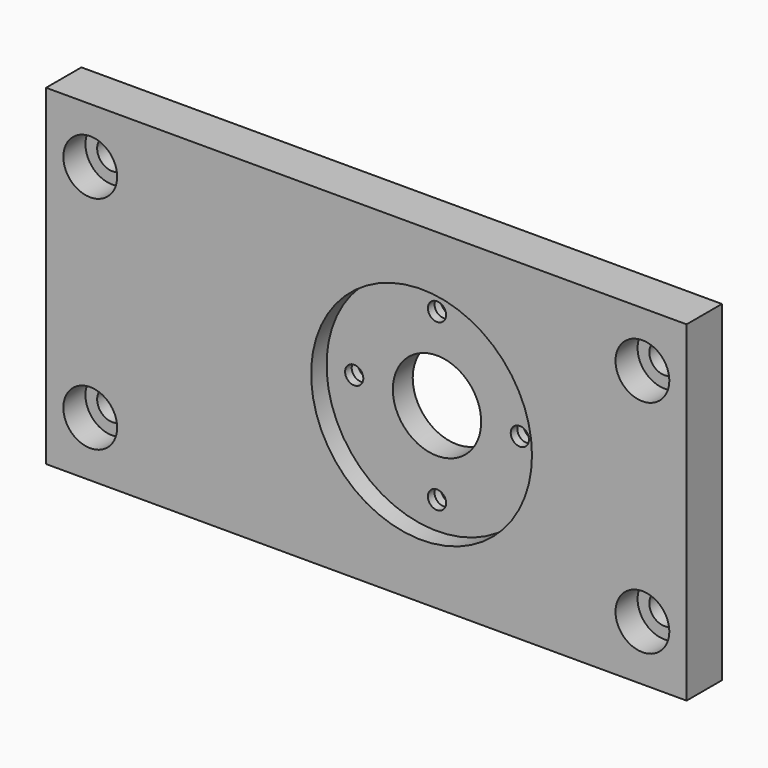
from build123d import *

# Parameters (mm, degrees)
F0_W           = 116
F0_H           = 60
F1_DEPTH       = 8
F3_D           = 5.5
F3_DEPTH       = 13.8
F3_CBORE_D     = 9.75
F3_CBORE_DEPTH = 5
F3_TIP         = 1.6523667023
F4_D           = 16
F4_DEPTH       = 13.8
F4_CBORE_D     = 40
F4_CBORE_DEPTH = 3.5
F4_TIP         = 4.8068849522
F5_D           = 3.3
F5_DEPTH       = 13.8
F5_CBORE_D     = 6.5
F5_CBORE_DEPTH = 3
F5_TIP         = 0.9914200214


with BuildPart() as f1:
    # F0 (on Front) → F1 (new body)
    with BuildSketch(Plane.XZ):
        with Locations((1.8354473706, 0.0017675648)):
            Rectangle(F0_W, F0_H)
    extrude(amount=F1_DEPTH)

    # F3
    with Locations(Plane.XZ.offset(8)):
        with Locations((-48.1645526294, 20.0017675648), (-48.1645526294, -19.9982324352), (51.8354473706, 20.0017675648), (51.8354473706, -19.9982324352)):
            CounterBoreHole(F3_D / 2, F3_CBORE_D / 2, F3_CBORE_DEPTH, depth=F3_DEPTH)
            with Locations((0, 0, -(F3_DEPTH + F3_TIP / 2))):  # 118° drill point
                Cone(0, F3_D / 2, F3_TIP, mode=Mode.SUBTRACT)

    # F4
    with Locations(Plane.XZ.offset(8)):
        with Locations((11.8354473706, 0)):
            CounterBoreHole(F4_D / 2, F4_CBORE_D / 2, F4_CBORE_DEPTH, depth=F4_DEPTH)
            with Locations((0, 0, -(F4_DEPTH + F4_TIP / 2))):  # 118° drill point
                Cone(0, F4_D / 2, F4_TIP, mode=Mode.SUBTRACT)

    # F5
    with Locations(Plane(origin=(0, 0, 0), x_dir=(1, 0, 0), z_dir=(0, 1, 0))):
        with Locations((11.8354473706, -15), (26.8354473706, 0), (11.8354473706, 15), (-3.1645526294, 0)):
            CounterBoreHole(F5_D / 2, F5_CBORE_D / 2, F5_CBORE_DEPTH, depth=F5_DEPTH)
            with Locations((0, 0, -(F5_DEPTH + F5_TIP / 2))):  # 118° drill point
                Cone(0, F5_D / 2, F5_TIP, mode=Mode.SUBTRACT)


solid = f1.part
